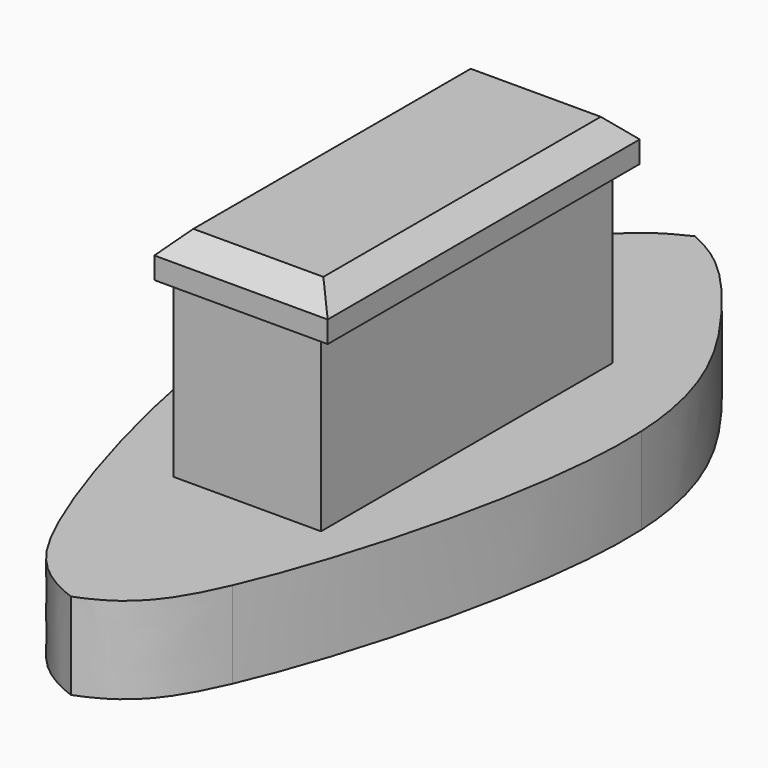
from build123d import *

# Parameters (mm, degrees)
F1_DEPTH = 1
F2_W     = 0.9661824606
F2_H     = 2.1
F3_DEPTH = 2
F4_W     = 0.85
F4_H     = 4.2
F5_DEPTH = 0.5
F6_SIZE  = 0.25


with BuildPart() as f1:
    # F0 (on Top) → F1 (new body)
    with BuildSketch(Plane.XY):
        with BuildLine():
            Line((0, 5.7256516985), (-2, 5.7256516985))
            add(Edge.make_bspline(
                [(-2, 5.7256516985), (-2.0680379738, 4.3142188256), (-1.4793331486, 2.1693367722), (-1, 1.0774956806)],
                knots=[0.49395691, 0.49395691, 0.49395691, 0.49395691, 0.8191677941, 0.8191677941, 0.8191677941, 0.8191677941], degree=3))
            Line((-1, 1.0774956806), (0, 1.0774956806))
            Line((0, 1.0774956806), (0, 5.7256516985))
        make_face()
        with BuildLine():
            Line((0, 8.7250128189), (-0.45, 8.7250128189))
            add(Edge.make_bspline(
                [(-0.45, 8.7250128189), (-0.6863850918, 8.530402377), (-1.3369422342, 7.7719026331), (-1.9532092441, 6.6963156863), (-2, 5.7256516985)],
                knots=[0.1083102347, 0.1083102347, 0.1083102347, 0.1083102347, 0.2703044079, 0.49395691, 0.49395691, 0.49395691, 0.49395691], degree=3))
            Line((-2, 5.7256516985), (0, 5.7256516985))
            Line((0, 5.7256516985), (0, 8.7250128189))
        make_face()
        with BuildLine():
            Line((0.45, 8.7250128189), (0, 8.7250128189))
            Line((0, 8.7250128189), (0, 5.7256516985))
            Line((0, 5.7256516985), (2, 5.7256516985))
            add(Edge.make_bspline(
                [(0.45, 8.7250128189), (0.6863850918, 8.530402377), (1.3369422342, 7.7719026331), (1.9532092441, 6.6963156863), (2, 5.7256516985)],
                knots=[0.1083102347, 0.1083102347, 0.1083102347, 0.1083102347, 0.2703044079, 0.49395691, 0.49395691, 0.49395691, 0.49395691], degree=3))
        make_face()
        with BuildLine():
            Line((2, 5.7256516985), (0, 5.7256516985))
            Line((0, 5.7256516985), (0, 1.0774956806))
            Line((0, 1.0774956806), (1, 1.0774956806))
            add(Edge.make_bspline(
                [(2, 5.7256516985), (2.0680379738, 4.3142188256), (1.4793331486, 2.1693367722), (1, 1.0774956806)],
                knots=[0.49395691, 0.49395691, 0.49395691, 0.49395691, 0.8191677941, 0.8191677941, 0.8191677941, 0.8191677941], degree=3))
        make_face()
        with BuildLine():
            Line((1, 1.0774956806), (0, 1.0774956806))
            Line((0, 1.0774956806), (0, 0))
            add(Edge.make_bspline(
                [(1, 1.0774956806), (0.7334687279, 0.4703818268), (0.5007537712, 0.188854692), (0, 0)],
                knots=[0.8191677941, 0.8191677941, 0.8191677941, 0.8191677941, 1, 1, 1, 1], degree=3))
        make_face()
        with BuildLine():
            Line((0, 1.0774956806), (-1, 1.0774956806))
            add(Edge.make_bspline(
                [(-1, 1.0774956806), (-0.7334687279, 0.4703818268), (-0.5007537712, 0.188854692), (0, 0)],
                knots=[0.8191677941, 0.8191677941, 0.8191677941, 0.8191677941, 1, 1, 1, 1], degree=3))
            Line((0, 0), (0, 1.0774956806))
        make_face()
        with BuildLine():
            add(Edge.make_bspline(
                [(0, 9), (0.150392861, 8.929814249), (0.2919515698, 8.8551304782), (0.45, 8.7250128189)],
                knots=[0, 0, 0, 0, 0.1083102347, 0.1083102347, 0.1083102347, 0.1083102347], degree=3))
            Line((0, 9), (0, 8.7250128189))
            Line((0, 8.7250128189), (0.45, 8.7250128189))
        make_face()
        with BuildLine():
            Line((0, 8.7250128189), (0, 9))
            add(Edge.make_bspline(
                [(0, 9), (-0.150392861, 8.929814249), (-0.2919515698, 8.8551304782), (-0.45, 8.7250128189)],
                knots=[0, 0, 0, 0, 0.1083102347, 0.1083102347, 0.1083102347, 0.1083102347], degree=3))
            Line((-0.45, 8.7250128189), (0, 8.7250128189))
        make_face()
    extrude(amount=F1_DEPTH)

    # F2 (on face) → F3 (join)
    with BuildSketch(Plane.XY.offset(1)):
        Polygon((-0.7338175394, 2.4), (0, 2.4), (0, 4.5), (0.9661824606, 4.5), (0.9661824606, 6.6), (-0.7338175394, 6.6), align=None)
        with Locations((0.4830912303, 3.45)):
            Rectangle(F2_W, F2_H)
    extrude(amount=F3_DEPTH)

    # F4 (on face) → F5 (join)
    with BuildSketch(Plane.XY.offset(3)):
        Polygon((0.1161824606, 6.6), (0.1161824606, 6.78964095), (-0.8687144145, 6.78964095), (-0.8687144145, 2.28964095), (0.1161824606, 2.28964095), (0.1161824606, 2.4), (-0.7338175394, 2.4), (-0.7338175394, 6.6), align=None)
        with Locations((-0.3088175394, 4.5)):
            Rectangle(F4_W, F4_H)
        with Locations((0.5411824606, 4.5)):
            Rectangle(F4_W, F4_H)
        Polygon((1.1312855855, 6.78964095), (0.1161824606, 6.78964095), (0.1161824606, 6.6), (0.9661824606, 6.6), (0.9661824606, 2.4), (0.1161824606, 2.4), (0.1161824606, 2.28964095), (1.1312855855, 2.28964095), align=None)
    extrude(amount=F5_DEPTH)

    # F6
    f6_edges = [f1.edges().sort_by_distance(p)[0] for p in [
        (0.131286, 2.289641, 3.5),
        (1.131286, 4.539641, 3.5),
        (0.131286, 6.789641, 3.5),
        (-0.868714, 4.539641, 3.5),
    ]]
    chamfer(f6_edges, length=F6_SIZE)


solid = f1.part
